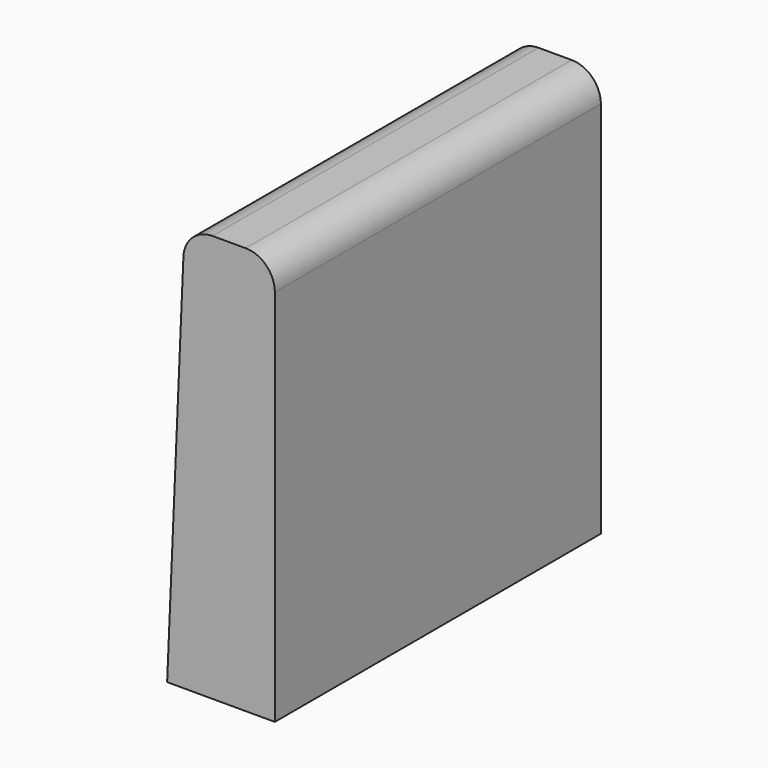
from build123d import *

# Parameters (mm, degrees)
F1_DEPTH = 70
F2_R     = 5
F4_D     = 4
F4_DEPTH = 10
F4_TIP   = 1.2017212381


with BuildPart() as f1:
    # F0 (on Front) → F1 (new body)
    with BuildSketch(Plane.XZ):
        Polygon((3, 70), (0, 0), (18.5, 0), (18.5, 70), align=None)
    extrude(amount=F1_DEPTH)

    # F2
    f2_edges = [f1.edges().sort_by_distance(p)[0] for p in [
        (18.5, -35, 70),
        (3, -35, 70),
    ]]
    fillet(f2_edges, radius=F2_R)

    # F4
    with Locations(Plane(origin=(0, 0, 0), x_dir=(1, 0, 0), z_dir=(0, 0, -1))):
        with Locations((9.25, 55), (9.25, 15)):
            Hole(F4_D / 2, depth=F4_DEPTH)
            with Locations((0, 0, -(F4_DEPTH + F4_TIP / 2))):  # 118° drill point
                Cone(0, F4_D / 2, F4_TIP, mode=Mode.SUBTRACT)


solid = f1.part
